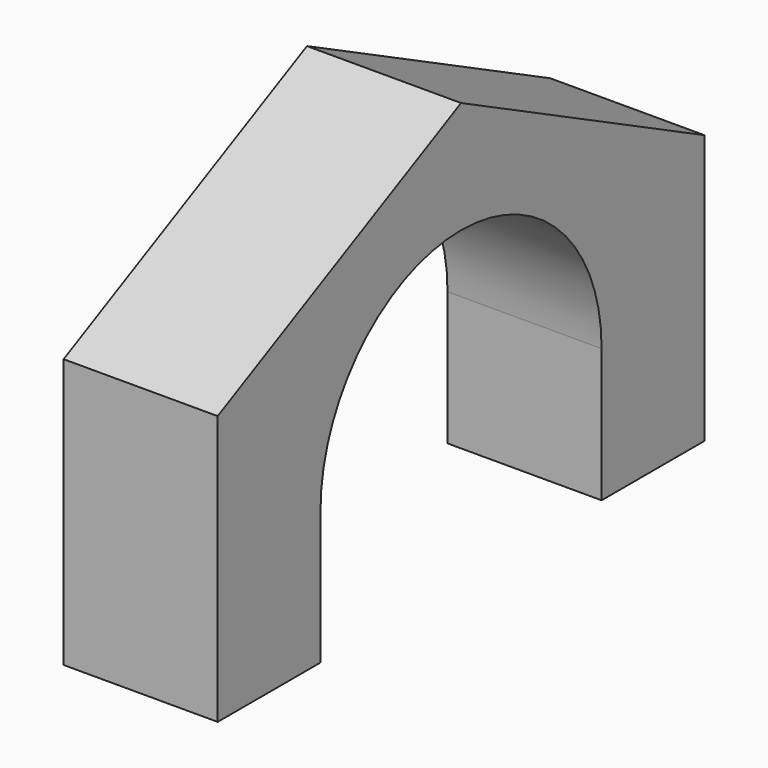
from build123d import *

# Parameters (mm, degrees)
PAD_DEPTH = 10


with BuildPart() as part:
    # Sketch → Pad (new body)
    with BuildSketch(Plane.YZ):
        with BuildLine():
            Line((11.40163, 0), (19.740902, 0))
            Line((19.740902, 0), (19.740902, 17.47224))
            Line((19.740902, 17.47224), (0, 27.335573))
            Line((0, 27.335573), (0, 20.068824))
            ThreePointArc((11.40163, 8.667194), (8.06217, 16.729364), (0, 20.068824))
            Line((11.40163, 0), (11.40163, 8.667194))
        make_face()
    pad = extrude(amount=PAD_DEPTH)

    # Mirrored: Pad across Sketch V_Axis
    add(pad.mirror(Plane(origin=(0, 0, 0), x_dir=(1, 0, 0), z_dir=(0, 1, 0))))


solid = part.part
